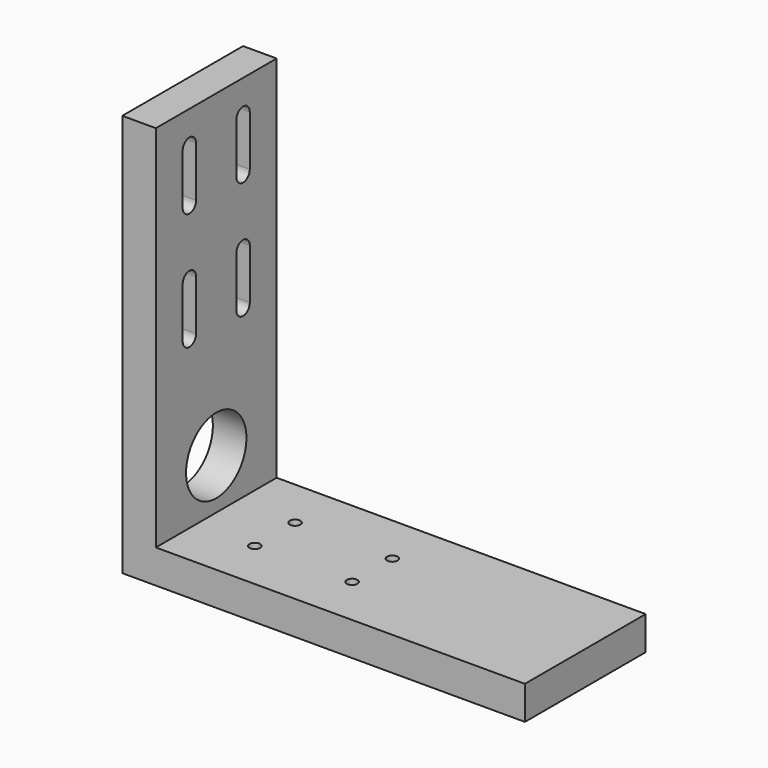
from build123d import *

# Parameters (mm, degrees)
F0_W     = 57.15
F0_H     = 139.7
F0_R     = 14.2875
F1_DEPTH = 12.7
F2_W     = 139.7
F2_H     = 57.15
F2_R     = 2.0193
F2_W_2   = 12.7
F3_DEPTH = 12.7


with BuildPart() as f1:
    # F0 (on Right) → F1 (new body)
    with BuildSketch(Plane.YZ):
        with Locations((28.575, 69.85)):
            Rectangle(F0_W, F0_H)
        with Locations((28.575001, 19.05)):
            Circle(F0_R, mode=Mode.SUBTRACT)
        with BuildLine():
            ThreePointArc((19.05, 63.5), (15.875, 60.325), (12.7, 63.5))
            Line((12.7, 63.5), (12.7, 82.55))
            ThreePointArc((12.7, 82.55), (15.875, 85.725), (19.05, 82.55))
            Line((19.05, 82.55), (19.05, 63.5))
        make_face(mode=Mode.SUBTRACT)
        with BuildLine():
            ThreePointArc((19.05, 107.95), (15.875, 104.775), (12.7, 107.95))
            Line((12.7, 107.95), (12.7, 127))
            ThreePointArc((12.7, 127), (15.875, 130.175), (19.05, 127))
            Line((19.05, 127), (19.05, 107.95))
        make_face(mode=Mode.SUBTRACT)
        with BuildLine():
            ThreePointArc((44.45, 63.5), (41.275, 60.325), (38.1, 63.5))
            Line((38.1, 63.5), (38.1, 82.55))
            ThreePointArc((38.1, 82.55), (41.275, 85.725), (44.45, 82.55))
            Line((44.45, 82.55), (44.45, 63.5))
        make_face(mode=Mode.SUBTRACT)
        with BuildLine():
            ThreePointArc((44.45, 107.95), (41.275, 104.775), (38.1, 107.95))
            Line((38.1, 107.95), (38.1, 127))
            ThreePointArc((38.1, 127), (41.275, 130.175), (44.45, 127))
            Line((44.45, 127), (44.45, 107.95))
        make_face(mode=Mode.SUBTRACT)
    extrude(amount=F1_DEPTH)

    # F2 (on face) → F3 (join)
    with BuildSketch(Plane(origin=(0, 0, 0), x_dir=(1, 0, 0), z_dir=(0, 0, -1))):
        with Locations((82.55, -28.575)):
            Rectangle(F2_W, F2_H)
        with Locations((34.925, -38.1)):
            Circle(F2_R, mode=Mode.SUBTRACT)
        with Locations((71.755, -38.1)):
            Circle(F2_R, mode=Mode.SUBTRACT)
        with Locations((34.925, -19.05)):
            Circle(F2_R, mode=Mode.SUBTRACT)
        with Locations((71.755, -19.05)):
            Circle(F2_R, mode=Mode.SUBTRACT)
        with Locations((6.35, -28.575)):
            Rectangle(F2_W_2, F2_H)
    extrude(amount=F3_DEPTH)


solid = f1.part
